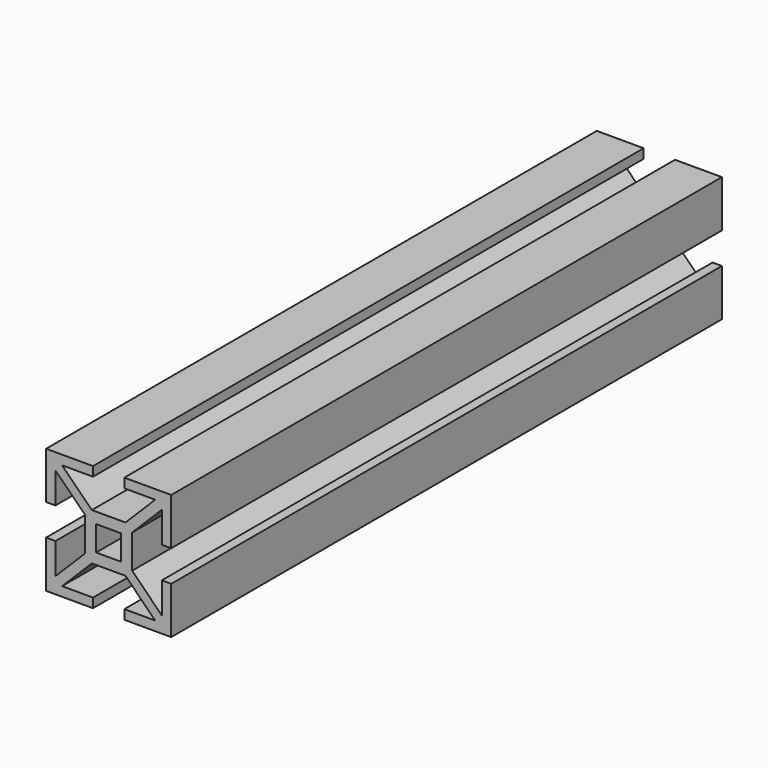
from build123d import *

# Parameters (mm, degrees)
F0_W     = 8
F0_H     = 8
F1_DEPTH = 110


with BuildPart() as f1:
    # F0 (on Front) → F1 (new body, symmetric)
    with BuildSketch(Plane.XZ):
        Polygon((-5, 17), (-5, 20), (-20, 20), (-20, 5), (-17, 5), (-17, 14.87868), (-17, 17), (-14.87868, 17), align=None)
        Polygon((-17, -5), (-20, -5), (-20, -20), (-5, -20), (-5, -17), (-14.87868, -17), (-17, -17), (-17, -14.87868), align=None)
        Polygon((20, -20), (20, -5), (17, -5), (17, -14.87868), (17, -17), (14.87868, -17), (5, -17), (5, -20), align=None)
        Polygon((20, 5), (20, 20), (5, 20), (5, 17), (14.87868, 17), (17, 17), (17, 14.87868), (17, 5), align=None)
        Polygon((17, 17), (14.87868, 17), (5.37868, 7.5), (7.5, 7.5), (7.5, 5.37868), (17, 14.87868), align=None)
        Polygon((-5.37868, 7.5), (-14.87868, 17), (-17, 17), (-17, 14.87868), (-7.5, 5.37868), (-7.5, 7.5), align=None)
        Polygon((-7.5, -5.37868), (-17, -14.87868), (-17, -17), (-14.87868, -17), (-5.37868, -7.5), (-7.5, -7.5), align=None)
        Polygon((17, -17), (17, -14.87868), (7.5, -5.37868), (7.5, -7.5), (5.37868, -7.5), (14.87868, -17), align=None)
        Polygon((7.5, 7.5), (5.37868, 7.5), (-5.37868, 7.5), (-7.5, 7.5), (-7.5, 5.37868), (-7.5, -5.37868), (-7.5, -7.5), (-5.37868, -7.5), (5.37868, -7.5), (7.5, -7.5), (7.5, -5.37868), (7.5, 5.37868), align=None)
        Rectangle(F0_W, F0_H, mode=Mode.SUBTRACT)
    extrude(amount=F1_DEPTH, both=True)


solid = f1.part
